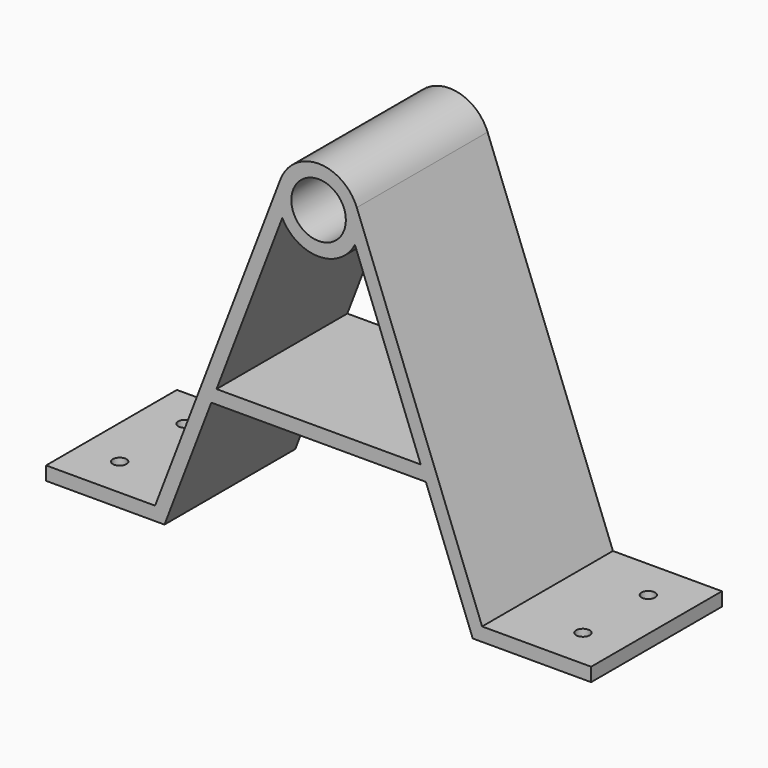
from build123d import *

# Parameters (mm, degrees)
F0_R     = 10
F1_DEPTH = 30
F2_R     = 2.5
F3_DEPTH = 5.001


with BuildPart() as f1:
    # F0 (on Front) → F1 (new body, symmetric)
    with BuildSketch(Plane.XZ):
        with BuildLine():
            Line((-60, -81.240696), (-100, -81.240696))
            Line((-100, -81.240696), (-100, -86.240696))
            Line((-100, -86.240696), (-56.557951, -86.240696))
            Line((-56.557951, -86.240696), (-39.363156, -41.240696))
            Line((-39.363156, -41.240696), (-37.452623, -36.240696))
            Line((-37.452623, -36.240696), (-13.331959, 26.884796))
            ThreePointArc((-13.331959, 26.884796), (-14.976864, 32.926515), (-14.011929, 39.113354))
            Line((-14.011929, 39.113354), (-60, -81.240696))
        make_face()
        with BuildLine():
            Line((60, -81.240696), (14.011929, 39.113354))
            ThreePointArc((14.011929, 39.113354), (14.750914, 36.481534), (15, 33.759304))
            ThreePointArc((15, 33.759304), (14.577026, 30.222313), (13.331959, 26.884796))
            Line((13.331959, 26.884796), (37.452623, -36.240696))
            Line((37.452623, -36.240696), (39.363156, -41.240696))
            Line((39.363156, -41.240696), (56.557951, -86.240696))
            Line((56.557951, -86.240696), (100, -86.240696))
            Line((100, -86.240696), (100, -81.240696))
            Line((100, -81.240696), (60, -81.240696))
        make_face()
        with BuildLine():
            ThreePointArc((14.011929, 39.113354), (0, 48.759304), (-14.011929, 39.113354))
            ThreePointArc((-14.011929, 39.113354), (-14.976864, 32.926515), (-13.331959, 26.884796))
            ThreePointArc((-13.331959, 26.884796), (0, 18.759304), (13.331959, 26.884796))
            ThreePointArc((13.331959, 26.884796), (14.577026, 30.222313), (15, 33.759304))
            ThreePointArc((15, 33.759304), (14.750914, 36.481534), (14.011929, 39.113354))
        make_face()
        with Locations((0, 33.759304)):
            Circle(F0_R, mode=Mode.SUBTRACT)
        Polygon((-37.452623, -36.240696), (-39.363156, -41.240696), (39.363156, -41.240696), (37.452623, -36.240696), align=None)
    extrude(amount=F1_DEPTH, both=True)

    # F2 (on face) → F3 (cut, through all)
    with BuildSketch(Plane.XY.offset(-81.240696)):
        with Locations((-85, 15)):
            Circle(F2_R)
        with Locations((-85, -15)):
            Circle(F2_R)
        with Locations((85, -15)):
            Circle(F2_R)
        with Locations((85, 15)):
            Circle(F2_R)
    extrude(amount=-F3_DEPTH, mode=Mode.SUBTRACT)


solid = f1.part
